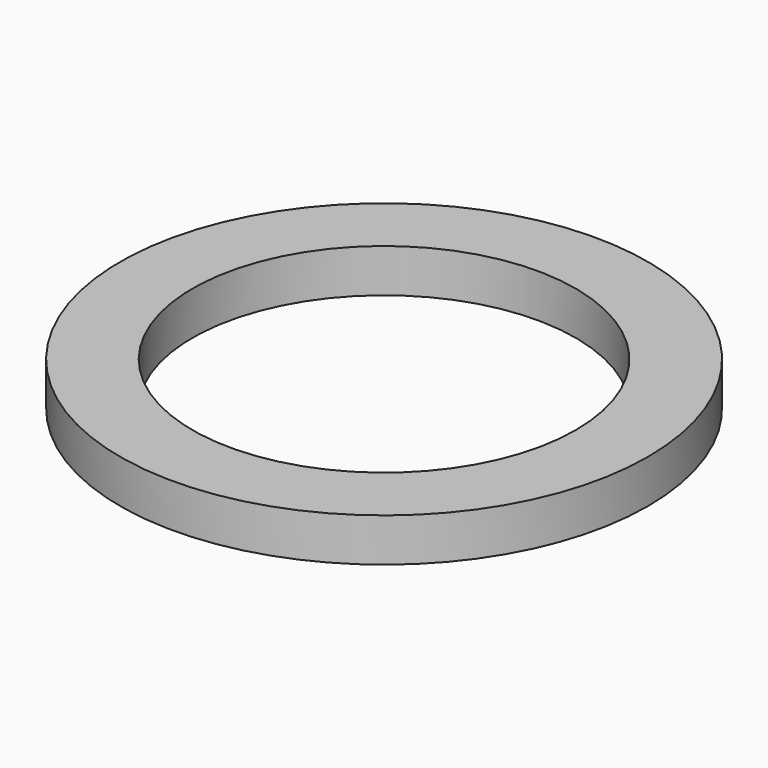
from build123d import *

# Parameters (mm, degrees)
SKETCH_R   = 3.65
SKETCH_R_2 = 2.65
PAD_DEPTH  = 0.6


with BuildPart() as part:
    # Sketch → Pad (new body)
    with BuildSketch(Plane.XY):
        Circle(SKETCH_R)
        Circle(SKETCH_R_2, mode=Mode.SUBTRACT)
    extrude(amount=PAD_DEPTH)


solid = part.part
